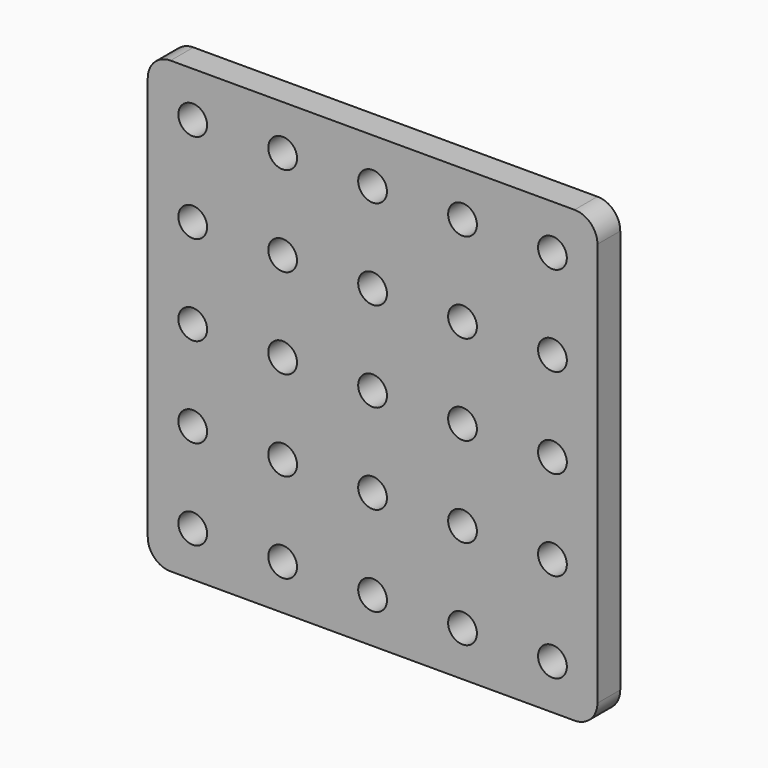
from build123d import *

# Parameters (mm, degrees)
F0_R     = 1.6
F1_DEPTH = 3.175


with BuildPart() as f1:
    # F0 (on Front) → F1 (new body)
    with BuildSketch(Plane.XZ):
        with BuildLine():
            Line((47.46, 0), (2.54, 0))
            ThreePointArc((2.54, 0), (0.743949, -0.743949), (0, -2.54))
            Line((0, -2.54), (0, -47.46))
            ThreePointArc((0, -47.46), (0.743949, -49.256051), (2.54, -50))
            Line((2.54, -50), (47.46, -50))
            ThreePointArc((47.46, -50), (49.256051, -49.256051), (50, -47.46))
            Line((50, -47.46), (50, -2.54))
            ThreePointArc((50, -2.54), (49.256051, -0.743949), (47.46, 0))
        make_face()
        with Locations((5, -45)):
            Circle(F0_R, mode=Mode.SUBTRACT)
        with Locations((15, -45)):
            Circle(F0_R, mode=Mode.SUBTRACT)
        with Locations((5, -35)):
            Circle(F0_R, mode=Mode.SUBTRACT)
        with Locations((15, -35)):
            Circle(F0_R, mode=Mode.SUBTRACT)
        with Locations((25, -45)):
            Circle(F0_R, mode=Mode.SUBTRACT)
        with Locations((35, -45)):
            Circle(F0_R, mode=Mode.SUBTRACT)
        with Locations((45, -45)):
            Circle(F0_R, mode=Mode.SUBTRACT)
        with Locations((25, -35)):
            Circle(F0_R, mode=Mode.SUBTRACT)
        with Locations((35, -35)):
            Circle(F0_R, mode=Mode.SUBTRACT)
        with Locations((45, -35)):
            Circle(F0_R, mode=Mode.SUBTRACT)
        with Locations((5, -25)):
            Circle(F0_R, mode=Mode.SUBTRACT)
        with Locations((5, -15)):
            Circle(F0_R, mode=Mode.SUBTRACT)
        with Locations((15, -25)):
            Circle(F0_R, mode=Mode.SUBTRACT)
        with Locations((15, -15)):
            Circle(F0_R, mode=Mode.SUBTRACT)
        with Locations((5, -5)):
            Circle(F0_R, mode=Mode.SUBTRACT)
        with Locations((15, -5)):
            Circle(F0_R, mode=Mode.SUBTRACT)
        with Locations((25, -25)):
            Circle(F0_R, mode=Mode.SUBTRACT)
        with Locations((35, -25)):
            Circle(F0_R, mode=Mode.SUBTRACT)
        with Locations((25, -15)):
            Circle(F0_R, mode=Mode.SUBTRACT)
        with Locations((35, -15)):
            Circle(F0_R, mode=Mode.SUBTRACT)
        with Locations((45, -25)):
            Circle(F0_R, mode=Mode.SUBTRACT)
        with Locations((45, -15)):
            Circle(F0_R, mode=Mode.SUBTRACT)
        with Locations((25, -5)):
            Circle(F0_R, mode=Mode.SUBTRACT)
        with Locations((35, -5)):
            Circle(F0_R, mode=Mode.SUBTRACT)
        with Locations((45, -5)):
            Circle(F0_R, mode=Mode.SUBTRACT)
    extrude(amount=F1_DEPTH)


solid = f1.part
